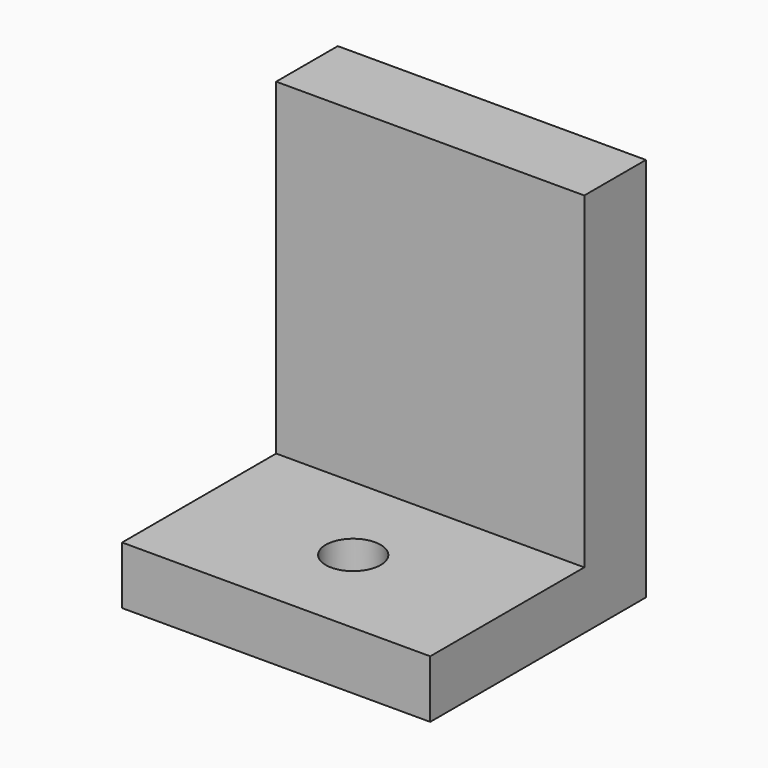
from build123d import *

# Parameters (mm, degrees)
F1_DEPTH       = 40
F3_D           = 9
F3_CBORE_D     = 14.25
F3_CBORE_DEPTH = 8


with BuildPart() as f1:
    # F0 (on Right) → F1 (new body, symmetric)
    with BuildSketch(Plane.YZ):
        Polygon((0, 15), (0, 0), (70, 0), (70, 100), (50, 100), (50, 15), align=None)
    extrude(amount=F1_DEPTH, both=True)

    # F3 (through all)
    with Locations(Plane.XY.offset(15)):
        with Locations((0, 25)):
            CounterBoreHole(F3_D / 2, F3_CBORE_D / 2, F3_CBORE_DEPTH)


solid = f1.part
